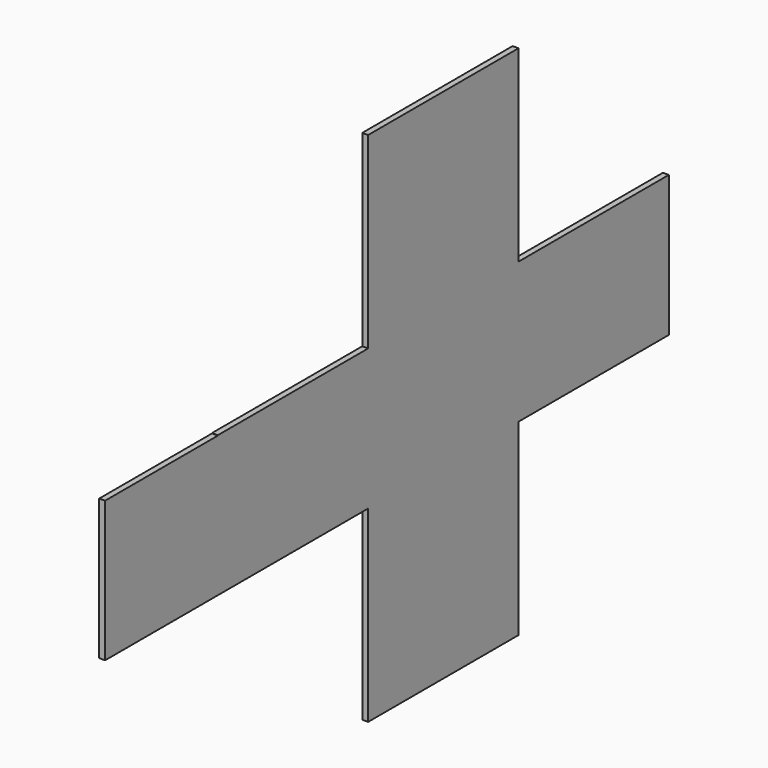
from build123d import *

# Parameters (mm, degrees)
F0_W     = 101.6
F0_H     = 76.2
F0_H_2   = 101.6
F0_W_2   = 76.2
F0_H_3   = 75.9911096332
F1_DEPTH = 3.175


with BuildPart() as f1:
    # F0 (on Right) → F1 (new body)
    with BuildSketch(Plane.YZ):
        with Locations((-41.6427117772, -37.8911096332)):
            Rectangle(F0_W, F0_H)
        with Locations((-143.2427117772, -37.8911096332)):
            Rectangle(F0_W, F0_H)
        with Locations((-143.2427117772, -126.7911096332)):
            Rectangle(F0_W, F0_H_2)
        with Locations((-143.2427117772, 51.0088903668)):
            Rectangle(F0_W, F0_H_2)
        Polygon((-295.6427117772, -75.9911096332), (-194.0427117772, -75.9911096332), (-194.0427117772, 0.2088903668), (-295.6427117772, 0.2088903668), (-295.6427117772, 0), align=None)
        with Locations((-333.7427117772, -37.9955548166)):
            Rectangle(F0_W_2, F0_H_3)
    extrude(amount=F1_DEPTH)


solid = f1.part
